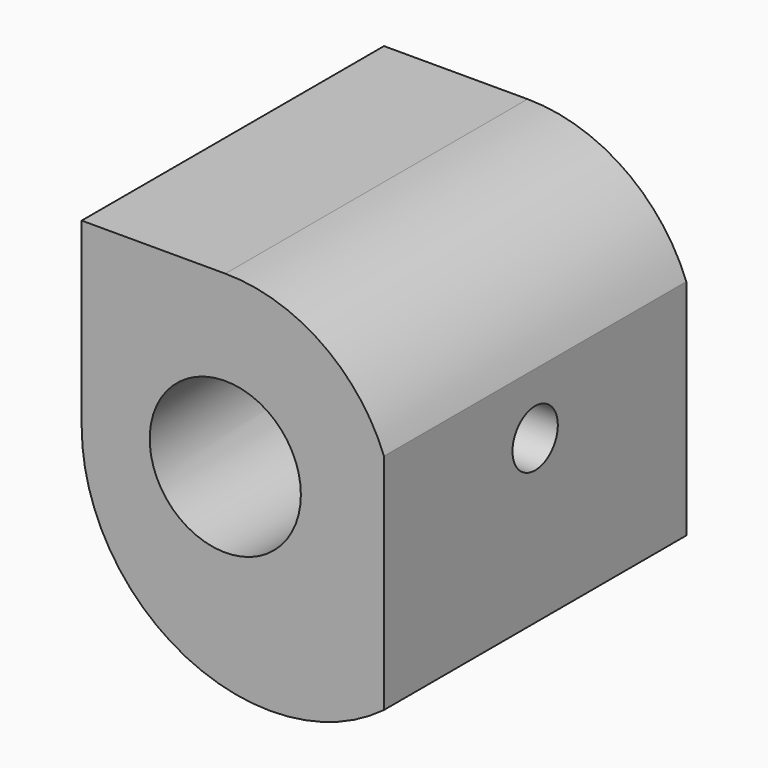
from build123d import *

# Parameters (mm, degrees)
F0_R     = 4
F1_DEPTH = 10
F2_R     = 1.5
F3_DEPTH = 16.001


with BuildPart() as f1:
    # F0 (on Front) → F1 (new body, symmetric)
    with BuildSketch(Plane.XZ):
        with BuildLine():
            ThreePointArc((-7.6, -0.6), (-2.072135955, -9.54427191), (8.4, -8.6))
            Line((8.4, -8.6), (8.4, 3.2310988843))
            ThreePointArc((8.4, 3.2310988843), (5.0951010805, 7.4188910882), (0, 9))
            Line((0, 9), (-7.6, 9))
            Line((-7.6, 9), (-7.6, -0.6))
        make_face()
        Circle(F0_R, mode=Mode.SUBTRACT)
    extrude(amount=F1_DEPTH, both=True)

    # F2 (on face) → F3 (cut, through all)
    with BuildSketch(Plane.YZ.offset(8.4)):
        Circle(F2_R)
    extrude(amount=-F3_DEPTH, mode=Mode.SUBTRACT)


solid = f1.part
